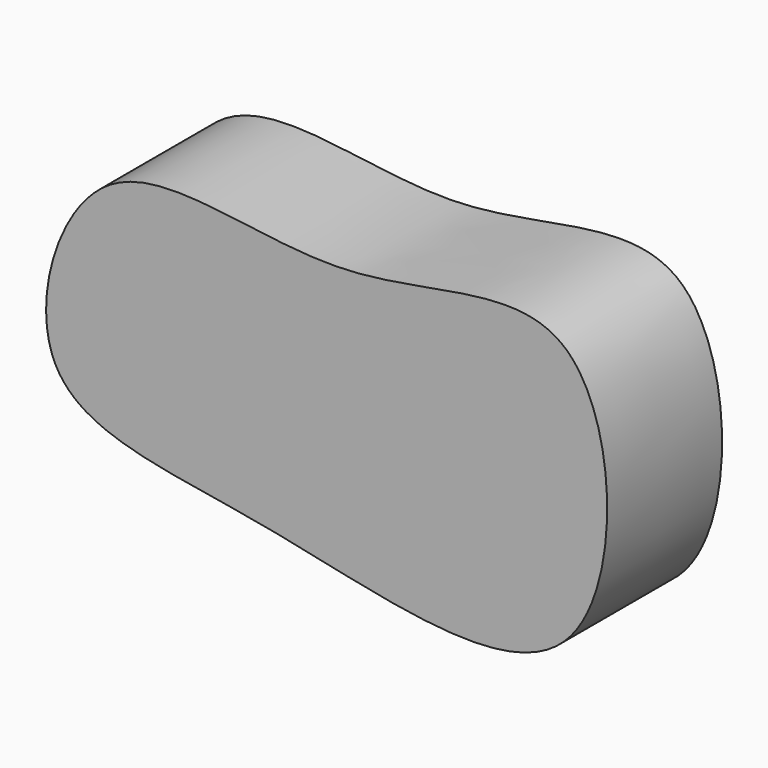
from build123d import *

# Parameters (mm, degrees)
F1_DEPTH = 25.4


with BuildPart() as f1:
    # F0 (on Front) → F1 (new body)
    with BuildSketch(Plane.XZ):
        with BuildLine():
            add(Edge.make_bspline(
                [(25.7960688323, 59.2669956386), (17.388338978, 67.2691586887), (-14.4776062694, 52.2032669189), (-59.1344158129, 71.1606864623), (-74.1922523777, 18.9662206919), (-27.1510438296, 17.246650515), (36.1325595886, -3.4127329531), (34.7174821956, 50.7759278226), (25.7960688323, 59.2669956386)],
                knots=[0, 0, 0, 0, 0.1627100964, 0.3295935683, 0.4756718169, 0.6384265367, 0.8273488737, 1, 1, 1, 1], degree=3))
        make_face()
    extrude(amount=F1_DEPTH)


solid = f1.part
